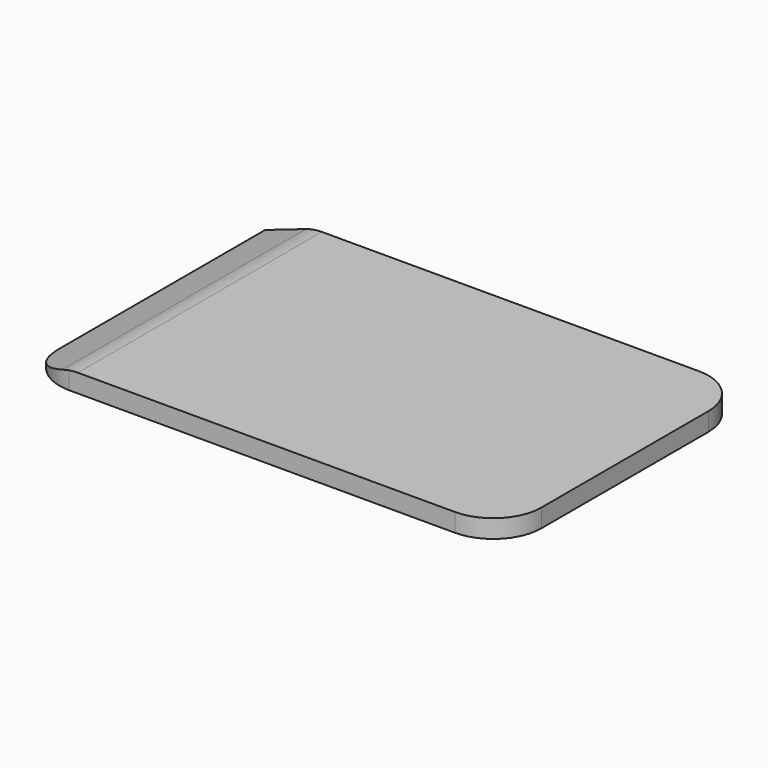
from build123d import *

# Parameters (mm, degrees)
F1_DEPTH = 158.75
F2_R     = 50


with BuildPart() as f1:
    # F0 (on Front) → F1 (new body, symmetric)
    with BuildSketch(Plane.XZ):
        with BuildLine():
            Line((-200.025, -9.525), (250.825, -9.525))
            Line((250.825, -9.525), (250.825, 9.525))
            Line((250.825, 9.525), (-191.671143, 9.525))
            ThreePointArc((-191.671143, 9.525), (-200.066769, 8.826432), (-208.231493, 6.749939))
            Line((-208.231493, 6.749939), (-250.825, -7.9375))
            Line((-250.825, -7.9375), (-250.825, -9.525))
            Line((-250.825, -9.525), (-200.025, -9.525))
        make_face()
    extrude(amount=F1_DEPTH, both=True)

    # F2
    f2_edges = [f1.edges().sort_by_distance(p)[0] for p in [
        (-250.825, -158.75, -8.73125),
        (250.825, -158.75, 0),
        (250.825, 158.75, 0),
    ]]
    fillet(f2_edges, radius=F2_R)


solid = f1.part
